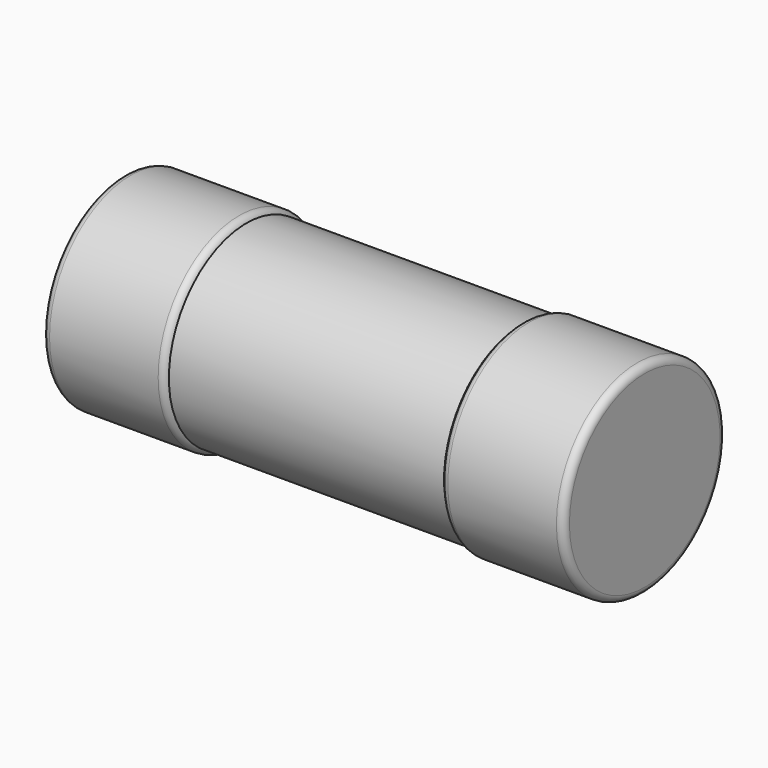
from build123d import *

# Parameters (mm, degrees)
F0_R     = 0.67
F1_DEPTH = 0.95
F2_R     = 0.7
F3_DEPTH = 0.85
F4_R     = 0.05


with BuildPart() as f1:
    # F0 (on Right) → F1 (new body, symmetric)
    with BuildSketch(Plane.YZ):
        Circle(F0_R)
    extrude(amount=F1_DEPTH, both=True)


with BuildPart() as f3:
    # F2 (on face) → F3 (new body)
    with BuildSketch(Plane(origin=(-0.95, 0, 0), x_dir=(0, -1, 0), z_dir=(-1, 0, 0))):
        Circle(F2_R)
    extrude(amount=F3_DEPTH)

    # F4
    f4_edges = [f3.edges().sort_by_distance(p)[0] for p in [
        (-1.8, 0.7, 0),
        (-0.95, 0.7, 0),
    ]]
    fillet(f4_edges, radius=F4_R)


with BuildPart() as f5_1:
    # F5: instance of F3
    add(f3.part.mirror(Plane.YZ))


solid = Compound([f1.part, f3.part, f5_1.part])
